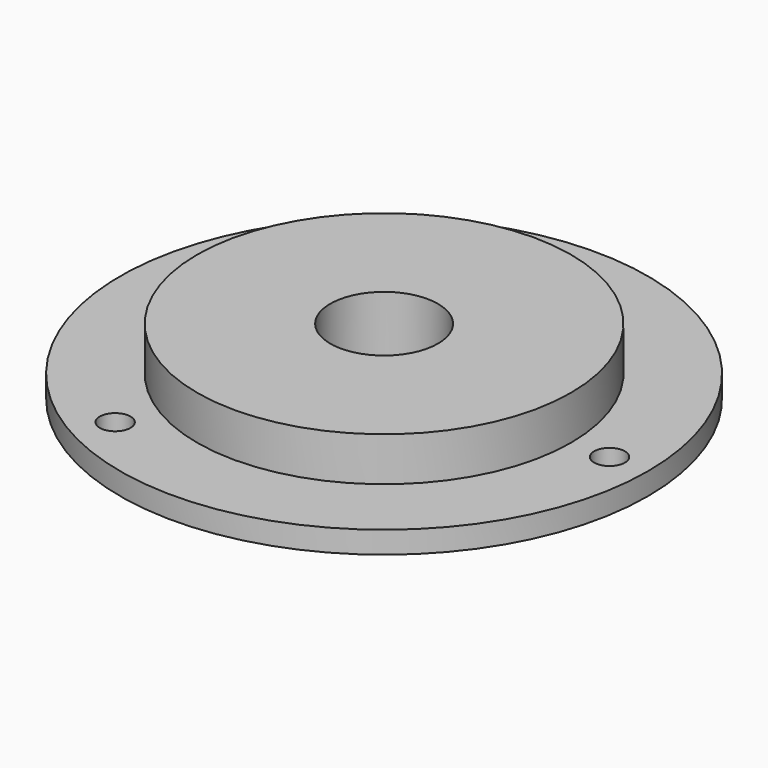
from build123d import *

# Parameters (mm, degrees)
CYLINDER058_R     = 1.4
CYLINDER058_DEPTH = 2
ARRAY012_COUNT    = 3
CYLINDER057_R     = 4.9
CYLINDER057_DEPTH = 6
CYLINDER056_R     = 24
CYLINDER056_DEPTH = 2
CYLINDER055_R     = 17
CYLINDER055_DEPTH = 4


with BuildPart() as screw_holes:
    # Cylinder058 → Cylinder058 (new body)
    with BuildSketch(Plane(origin=(20.5, 0, 0), x_dir=(1, 0, 0), z_dir=(0, 0, 1))):
        Circle(CYLINDER058_R)
    extrude(amount=CYLINDER058_DEPTH)

    # Array012: screw-holes ×3 about axis
    array012_axis = Axis((0, 0, 0), (0, 0, 1))


with BuildPart() as screw_holes_1:
    add(screw_holes.part)
    for i in range(1, ARRAY012_COUNT):
        add(screw_holes.part.rotate(array012_axis, i * 360 / ARRAY012_COUNT))


with BuildPart() as pot_thread_hole:
    # Cylinder057 → Cylinder057 (new body)
    with BuildSketch(Plane.XY):
        Circle(CYLINDER057_R)
    extrude(amount=CYLINDER057_DEPTH)


with BuildPart() as brim:
    # Cylinder056 → Cylinder056 (new body)
    with BuildSketch(Plane.XY):
        Circle(CYLINDER056_R)
    extrude(amount=CYLINDER056_DEPTH)


with BuildPart() as pot_mount001:
    # Cylinder055 → Cylinder055 (new body)
    with BuildSketch(Plane.XY.offset(2)):
        Circle(CYLINDER055_R)
    extrude(amount=CYLINDER055_DEPTH)

    # Fusion025: union brim
    add(brim.part)

    # Cut046: cut pot-thread-hole
    add(pot_thread_hole.part, mode=Mode.SUBTRACT)

    # Cut047: cut screw-holes
    add(screw_holes_1.part, mode=Mode.SUBTRACT)


with BuildPart() as pot_mount001_1:
    # Cut047 placement: moved
    add(pot_mount001.part.moved(Location((0, 0, 30.2))))


solid = pot_mount001_1.part
